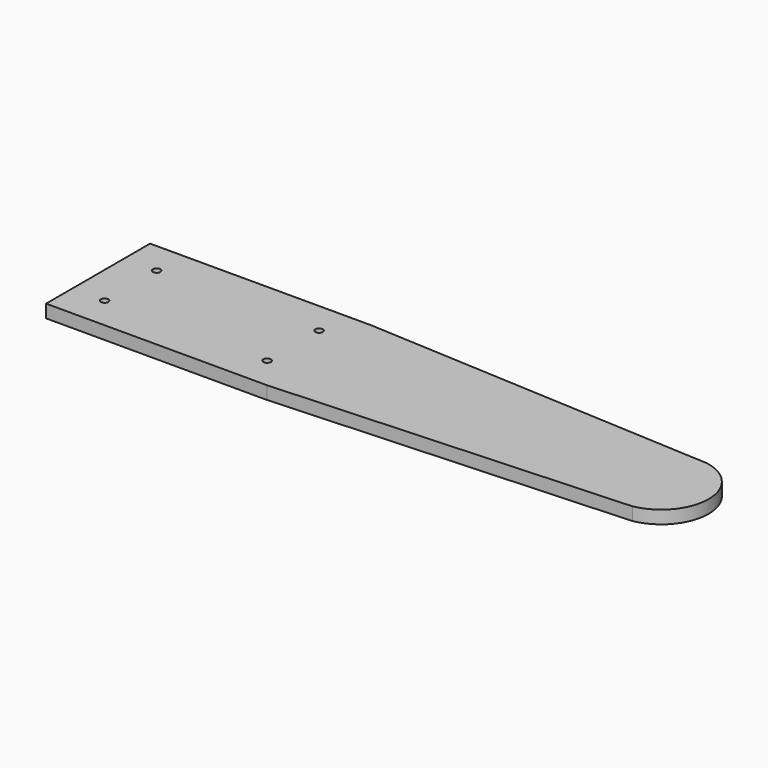
from build123d import *

# Parameters (mm, degrees)
F1_DEPTH = 2.54
F2_R     = 0.73531
F3_DEPTH = 25.4


with BuildPart() as f1:
    # F0 (on Top) → F1 (new body)
    with BuildSketch(Plane.XY):
        with BuildLine():
            Line((0, 25.4), (0, 0))
            Line((0, 0), (43.18, 0))
            Line((43.18, 0), (111.666013, 3.5892))
            ThreePointArc((111.666013, 3.5892), (119.286013, 12.7), (111.666013, 21.8108))
            Line((111.666013, 21.8108), (43.18, 25.4))
            Line((43.18, 25.4), (0, 25.4))
        make_face()
    extrude(amount=F1_DEPTH)

    # F2 (on face) → F3 (cut)
    with BuildSketch(Plane.XY.offset(2.54)):
        with Locations((6.35, 19.05)):
            Circle(F2_R)
        with Locations((6.35, 6.35)):
            Circle(F2_R)
        with Locations((38.1, 6.35)):
            Circle(F2_R)
        with Locations((38.1, 19.05)):
            Circle(F2_R)
    extrude(amount=-F3_DEPTH, mode=Mode.SUBTRACT)


solid = f1.part
